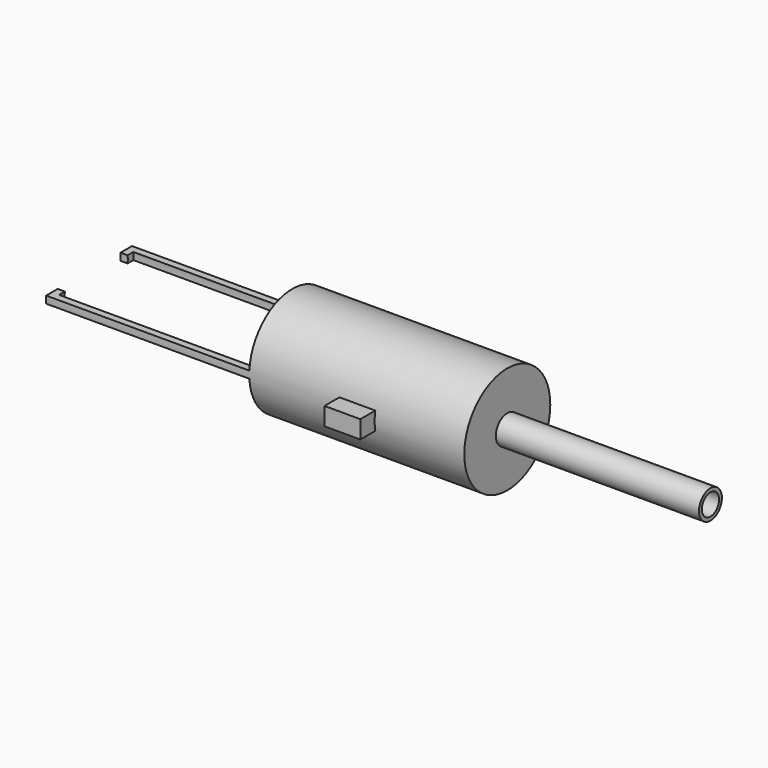
from build123d import *

# Parameters (mm, degrees)
F0_R      = 19.05
F1_DEPTH  = 148.2
F3_W      = 12.7
F3_H      = 3.175
F4_DEPTH  = 25.4
F6_W      = 101.6
F6_H      = 31.79568
F7_DEPTH  = 25.4
F8_R      = 5.08
F9_DEPTH  = 72
F10_R     = 3.81
F11_DEPTH = 152.4


with BuildPart() as f1:
    # F0 (on Right) → F1 (new body)
    with BuildSketch(Plane.YZ):
        Circle(F0_R)
    extrude(amount=-F1_DEPTH)

    # F3 (on Front) → F4 (join, symmetric)
    with BuildSketch(Plane.XZ):
        with Locations((-38.1, -1.5875)):
            Rectangle(F3_W, F3_H)
        with Locations((-38.1, 1.5875)):
            Rectangle(F3_W, F3_H)
    extrude(amount=F4_DEPTH, both=True)

    # F2 (on Front) → F5 (revolve, cut)
    with BuildSketch(Plane.XZ):
        with BuildLine():
            ThreePointArc((-8.89, -16.51), (-4.182231, -8.844527), (-2.54, 0))
            Line((-2.54, 0), (-8.89, 0))
            Line((-8.89, 0), (-8.89, -16.51))
        make_face()
        Polygon((-8.89, -16.51), (-8.89, 0), (-148.2, 0), (-148.2, -13.97), (-145.66, -13.97), (-145.66, -16.51), (-76.2, -16.51), align=None)
    revolve(axis=Axis((-78.545, 0, 0), (-1, 0, 0)), mode=Mode.SUBTRACT)

    # F6 (on Front) → F7 (cut, symmetric)
    with BuildSketch(Plane.XZ):
        Polygon((-177.8, 1.27), (-76.2, 1.27), (-76.2, 26.052563), (-178.992286, 26.052563), align=None)
        with Locations((-127, -17.16784)):
            Rectangle(F6_W, F6_H)
    extrude(amount=F7_DEPTH, both=True, mode=Mode.SUBTRACT)

    # F8 (on face) → F9 (join)
    with BuildSketch(Plane.YZ):
        Circle(F8_R)
    extrude(amount=F9_DEPTH)

    # F10 (on face) → F11 (cut)
    with BuildSketch(Plane.YZ.offset(72)):
        Circle(F10_R)
    extrude(amount=-F11_DEPTH, mode=Mode.SUBTRACT)


solid = f1.part
